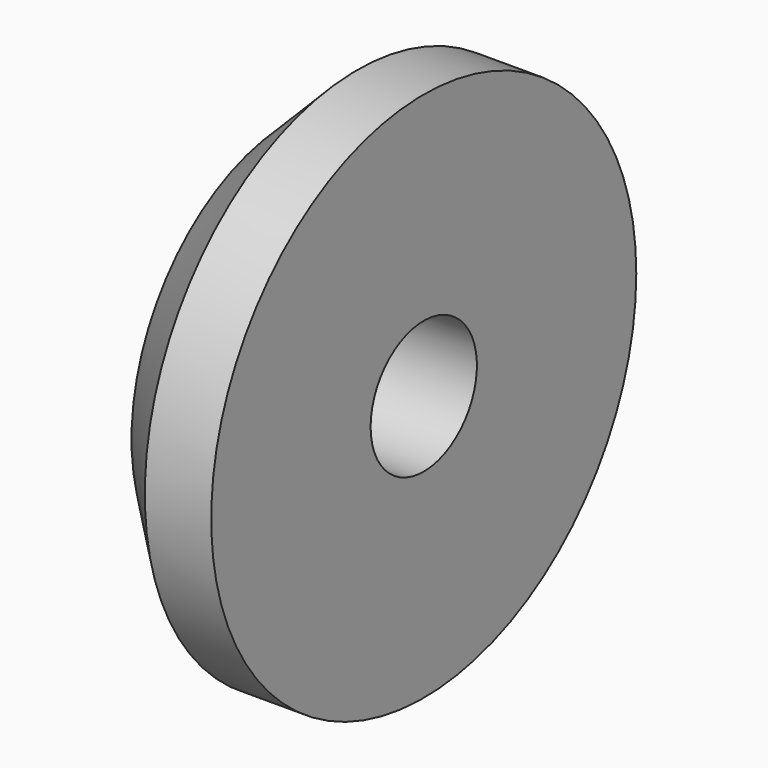
from build123d import *

# Parameters (mm, degrees)
F0_R     = 12.7
F1_DEPTH = 6.35
F3_D     = 6.35
F4_SIZE  = 3.175


with BuildPart() as f1:
    # F0 (on Right) → F1 (new body)
    with BuildSketch(Plane.YZ):
        Circle(F0_R)
    extrude(amount=-F1_DEPTH)

    # F3 (through all)
    with Locations(Plane.YZ):
        with Locations((0, 0)):
            Hole(F3_D / 2)

    # F4
    f4_edges = [f1.edges().sort_by_distance(p)[0] for p in [
        (-6.35, -12.7, 0),
    ]]
    chamfer(f4_edges, length=F4_SIZE)


solid = f1.part
